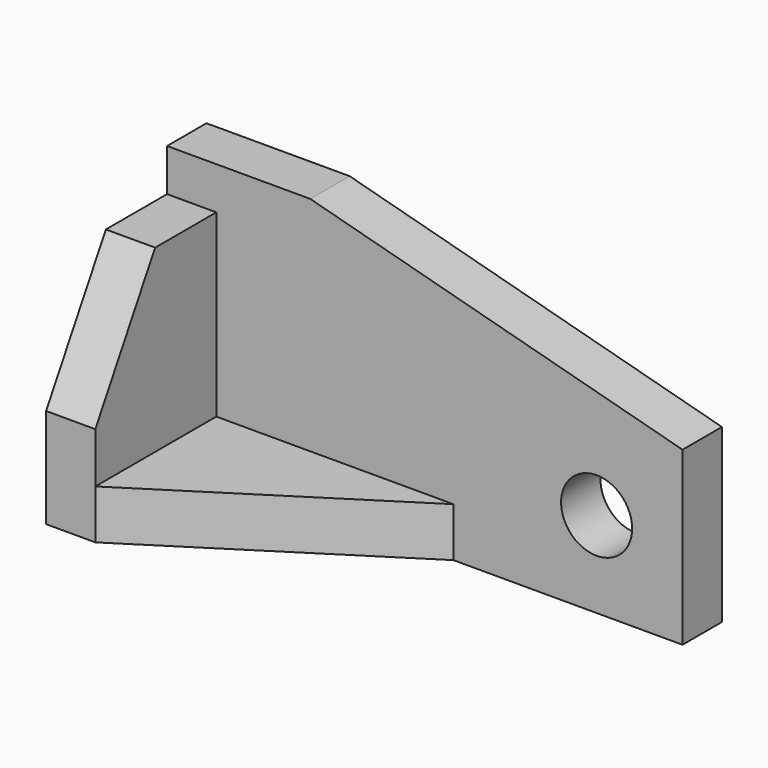
from build123d import *

# Parameters (mm, degrees)
F1_DEPTH = 44.45
F0_R     = 7.874
F2_DEPTH = 10.922
F4_DEPTH = 25.4
F6_DEPTH = 25.4


with BuildPart() as f1:
    # F0 (on Front) → F1 (new body)
    with BuildSketch(Plane.XZ):
        Polygon((-38.519986, 31.75), (-49.441986, 31.75), (-49.441986, -19.05), (14.058014, -19.05), (14.058014, -8.128), (-38.519986, -8.128), align=None)
    extrude(amount=F1_DEPTH)

    # F0 (on Front) → F2 (join)
    with BuildSketch(Plane.XZ):
        Polygon((-17.691986, 41.148), (-49.441986, 41.148), (-49.441986, 31.75), (-38.519986, 31.75), (-38.519986, -8.128), (14.058014, -8.128), (14.058014, -19.05), (64.858014, -19.05), (64.858014, 19.028794), align=None)
        with Locations((45.808014, 0)):
            Circle(F0_R, mode=Mode.SUBTRACT)
    extrude(amount=F2_DEPTH)

    # F3 (on face) → F4 (cut)
    with BuildSketch(Plane.XY.offset(-8.128)):
        Polygon((14.058014, -10.922), (-38.519986, -44.45), (14.058014, -44.45), align=None)
    extrude(amount=-F4_DEPTH, mode=Mode.SUBTRACT)

    # F5 (on face) → F6 (cut)
    with BuildSketch(Plane.YZ.offset(-38.519986)):
        Polygon((-44.45, 3.048), (-27.878893, 31.75), (-44.45, 31.75), align=None)
    extrude(amount=-F6_DEPTH, mode=Mode.SUBTRACT)


solid = f1.part
